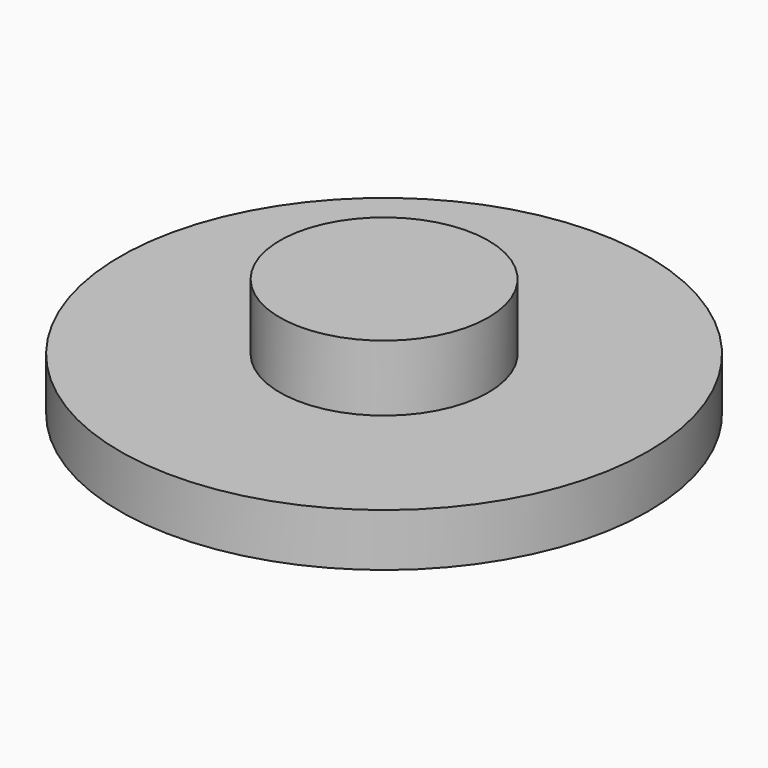
from build123d import *

# Parameters (mm, degrees)
F0_W   = 3.95
F0_H   = 2.5
F0_H_2 = 2
F0_W_2 = 6.05


with BuildPart() as f1:
    # F0 (on Front) → F1 (revolve)
    with BuildSketch(Plane.XZ):
        with Locations((1.975, 3.25)):
            Rectangle(F0_W, F0_H)
        with Locations((1.975, 1)):
            Rectangle(F0_W, F0_H_2)
        with Locations((6.975, 1)):
            Rectangle(F0_W_2, F0_H_2)
    revolve(axis=Axis((0, 0, 2.25), (0, 0, 1)))


solid = f1.part
